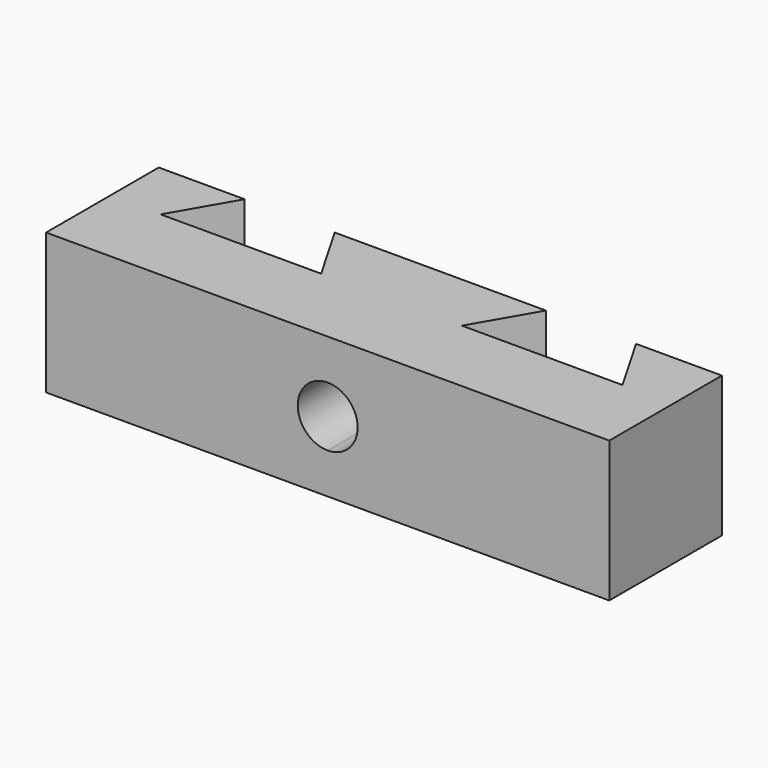
from build123d import *

# Parameters (mm, degrees)
F1_DEPTH = 20
F2_DEPTH = 15.2
F4_DEPTH = 15


with BuildPart() as f1:
    # F0 (on Top) → F1 (new body)
    with BuildSketch(Plane.XY):
        Polygon((-40, 0), (0, 0), (0, 20), (-15, 20), (-10, 11.339746), (-32.8, 11.339746), (-27.8, 20), (-40, 20), align=None)
        Polygon((0, 20), (0, 0), (40, 0), (40, 20), (27.8, 20), (32.8, 11.339746), (10, 11.339746), (15, 20), align=None)
        Polygon((-10, 11.339746), (-15, 20), (-27.8, 20), (-32.8, 11.339746), align=None)
        Polygon((27.8, 20), (15, 20), (10, 11.339746), (32.8, 11.339746), align=None)
    extrude(amount=-F1_DEPTH)

    # F0 (on Top) → F2 (cut)
    with BuildSketch(Plane.XY):
        Polygon((-10, 11.339746), (-15, 20), (-27.8, 20), (-32.8, 11.339746), align=None)
        Polygon((27.8, 20), (15, 20), (10, 11.339746), (32.8, 11.339746), align=None)
    extrude(amount=-F2_DEPTH, mode=Mode.SUBTRACT)

    # F3 (on face) → F4 (cut)
    with BuildSketch(Plane.XZ):
        with BuildLine():
            ThreePointArc((4.25, -10), (3.005204, -6.994796), (0, -5.75))
            Line((0, -5.75), (0, -10))
            Line((0, -10), (0, -14.25))
            ThreePointArc((0, -14.25), (3.005204, -13.005204), (4.25, -10))
        make_face()
        with BuildLine():
            Line((0, -10), (0, -5.75))
            ThreePointArc((0, -5.75), (-4.25, -10), (0, -14.25))
            Line((0, -14.25), (0, -10))
        make_face()
    extrude(amount=-F4_DEPTH, mode=Mode.SUBTRACT)


solid = f1.part
